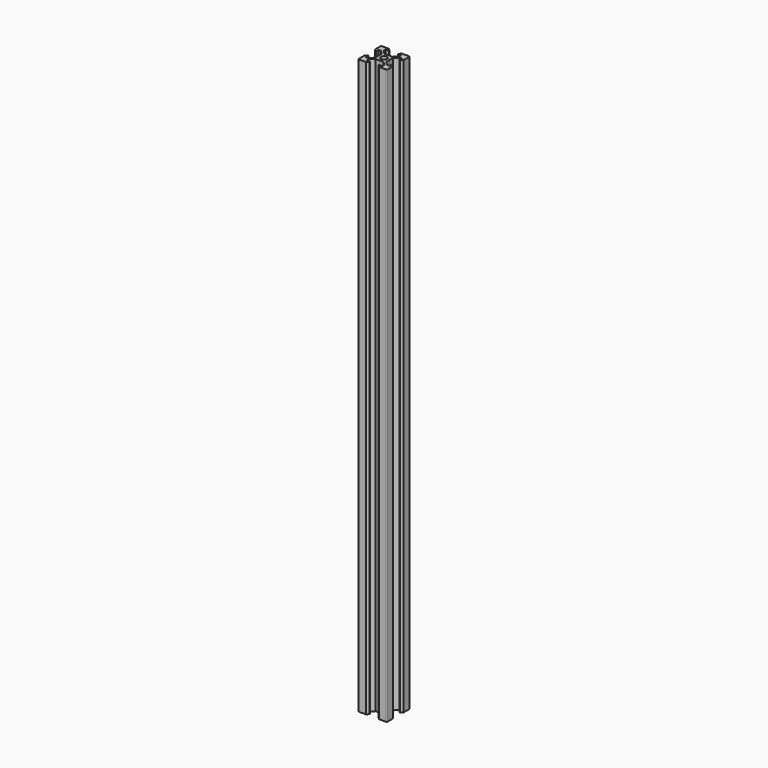
from build123d import *

# Parameters (mm, degrees)
SKETCH_R  = 2.1
PAD_DEPTH = 400


with BuildPart() as part:
    # Sketch → Pad (new body)
    with BuildSketch(Plane.XY):
        with BuildLine():
            Line((-10, 4.58), (-10, 9.5))
            ThreePointArc((-9.5, 10), (-9.853553, 9.853553), (-10, 9.5))
            Line((-9.5, 10), (-4.58, 10))
            Line((-4.58, 10), (-3.125, 8.545))
            Line((-3.125, 8.545), (-3.125, 8.2))
            Line((-5.5, 8.2), (-3.125, 8.2))
            Line((-5.5, 8.2), (-5.5, 6.56066))
            Line((-5.5, 6.56066), (-2.83934, 3.9))
            Line((-0.125, 3.9), (-2.83934, 3.9))
            ThreePointArc((-0.125, 3.9), (0, 3.775), (0.125, 3.9))
            Line((0.125, 3.9), (2.83934, 3.9))
            Line((2.83934, 3.9), (5.5, 6.56066))
            Line((5.5, 6.56066), (5.5, 8.2))
            Line((5.5, 8.2), (3.125, 8.2))
            Line((3.125, 8.2), (3.125, 8.545))
            Line((3.125, 8.545), (4.58, 10))
            Line((4.58, 10), (9.5, 10))
            ThreePointArc((10, 9.5), (9.853553, 9.853553), (9.5, 10))
            Line((10, 9.5), (10, 4.58))
            Line((10, 4.58), (8.545, 3.125))
            Line((8.545, 3.125), (8.2, 3.125))
            Line((8.2, 3.125), (8.2, 5.5))
            Line((8.2, 5.5), (6.56066, 5.5))
            Line((6.56066, 5.5), (3.9, 2.83934))
            Line((3.9, 2.83934), (3.9, 0.125))
            ThreePointArc((3.9, 0.125), (3.775, 0), (3.9, -0.125))
            Line((3.9, -0.125), (3.9, -2.83934))
            Line((3.9, -2.83934), (6.56066, -5.5))
            Line((6.56066, -5.5), (8.2, -5.5))
            Line((8.2, -5.5), (8.2, -3.125))
            Line((8.2, -3.125), (8.545, -3.125))
            Line((8.545, -3.125), (10, -4.58))
            Line((10, -4.58), (10, -9.5))
            ThreePointArc((9.5, -10), (9.853553, -9.853553), (10, -9.5))
            Line((9.5, -10), (4.58, -10))
            Line((4.58, -10), (3.125, -8.545))
            Line((3.125, -8.545), (3.125, -8.2))
            Line((3.125, -8.2), (5.5, -8.2))
            Line((5.5, -8.2), (5.5, -6.56066))
            Line((2.83934, -3.9), (5.5, -6.56066))
            Line((0.125, -3.9), (2.83934, -3.9))
            ThreePointArc((0.125, -3.9), (0, -3.775), (-0.125, -3.9))
            Line((-0.125, -3.9), (-2.83934, -3.9))
            Line((-2.83934, -3.9), (-5.5, -6.56066))
            Line((-5.5, -6.56066), (-5.5, -8.2))
            Line((-5.5, -8.2), (-3.125, -8.2))
            Line((-3.125, -8.545), (-3.125, -8.2))
            Line((-4.58, -10), (-3.125, -8.545))
            Line((-9.5, -10), (-4.58, -10))
            ThreePointArc((-10, -9.5), (-9.853553, -9.853553), (-9.5, -10))
            Line((-10, -4.58), (-10, -9.5))
            Line((-8.545, -3.125), (-10, -4.58))
            Line((-8.2, -3.125), (-8.545, -3.125))
            Line((-8.2, -5.5), (-8.2, -3.125))
            Line((-6.56066, -5.5), (-8.2, -5.5))
            Line((-3.9, -2.83934), (-6.56066, -5.5))
            Line((-3.9, -0.125), (-3.9, -2.83934))
            ThreePointArc((-3.9, -0.125), (-3.775, 0), (-3.9, 0.125))
            Line((-3.9, 2.83934), (-3.9, 0.125))
            Line((-6.56066, 5.5), (-3.9, 2.83934))
            Line((-8.2, 5.5), (-6.56066, 5.5))
            Line((-8.2, 5.5), (-8.2, 3.125))
            Line((-8.545, 3.125), (-8.2, 3.125))
            Line((-10, 4.58), (-8.545, 3.125))
        make_face()
        Circle(SKETCH_R, mode=Mode.SUBTRACT)
    extrude(amount=PAD_DEPTH)


solid = part.part
